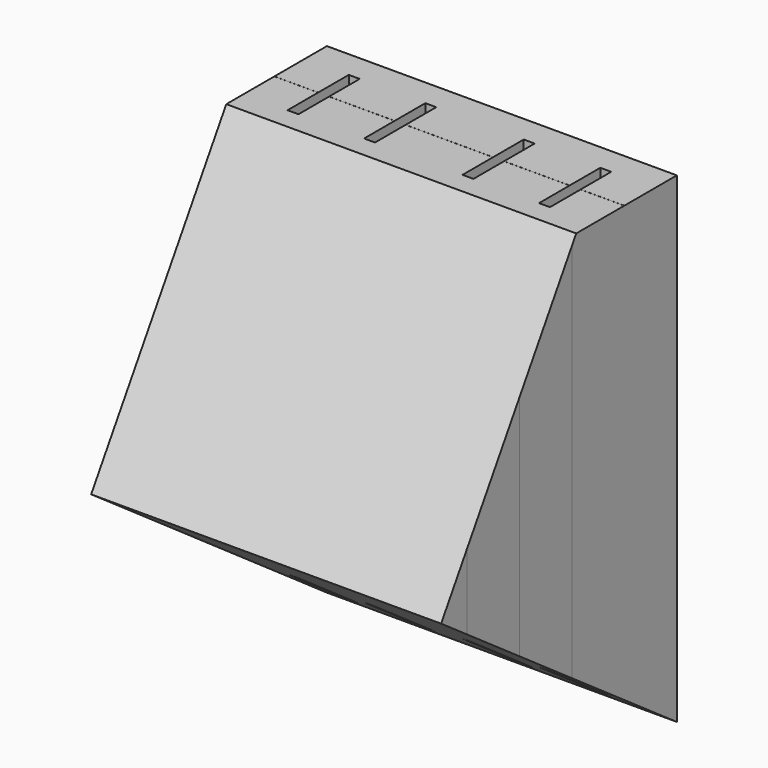
from build123d import *

# Parameters (mm, degrees)
F1_DEPTH  = 50.8
F2_W      = 3.175
F2_H      = 22.225
F3_DEPTH  = 135.1421026655
F5_W      = 101.6
F5_H      = 0.0254
F6_DEPTH  = 0.254
F8_DEPTH  = 101.601
F9_W      = 0.0254
F9_H      = 124.7511431575
F9_H_2    = 118.2847470045
F9_H_3    = 108.944401145
F9_H_4    = 108.2259044051
F10_DEPTH = 0.254


with BuildPart() as f1:
    # F0 (on Right) → F1 (new body, symmetric)
    with BuildSketch(Plane.YZ):
        Polygon((0, -139.7), (0, 0), (-95.25, 0), (-95.25, -73.0052319855), align=None)
    extrude(amount=F1_DEPTH, both=True)

    # F2 (on face) → F3 (cut, up to face)
    with BuildSketch(Plane.XY):
        with Locations((-36.5125, -19.05)):
            Rectangle(F2_W, F2_H)
        with Locations((-14.2875, -19.05)):
            Rectangle(F2_W, F2_H)
        with Locations((14.2875, -19.05)):
            Rectangle(F2_W, F2_H)
        with Locations((36.5125, -19.05)):
            Rectangle(F2_W, F2_H)
    extrude(amount=-F3_DEPTH, mode=Mode.SUBTRACT)

    # F5 (on face) → F6 (cut)
    with BuildSketch(Plane.XY):
        with Locations((0, -19.0627)):
            Rectangle(F5_W, F5_H)
        with Locations((0, -38.1127)):
            Rectangle(F5_W, F5_H)
        with Locations((0, -57.1627)):
            Rectangle(F5_W, F5_H)
    extrude(amount=-F6_DEPTH, mode=Mode.SUBTRACT)

    # F7 (on face) → F8 (cut, through all)
    with BuildSketch(Plane.YZ.offset(50.8)):
        Polygon((-105.2813167576, -79.797580018), (-85.5495216963, -79.797580018), (-36.5125, 0), (-105.2813167576, 0), align=None)
    extrude(amount=-F8_DEPTH, mode=Mode.SUBTRACT)

    # F9 (on face) → F10 (cut)
    with BuildSketch(Plane.YZ.offset(50.8)):
        with Locations((-19.0627, -62.3755715787)):
            Rectangle(F9_W, F9_H)
        with Locations((-38.1127, -59.1423735023)):
            Rectangle(F9_W, F9_H_2)
        with Locations((-57.1627, -54.4722005725)):
            Rectangle(F9_W, F9_H_3)
        with Locations((-76.2127, -54.1129522026)):
            Rectangle(F9_W, F9_H_4)
    extrude(amount=-F10_DEPTH, mode=Mode.SUBTRACT)


solid = f1.part
